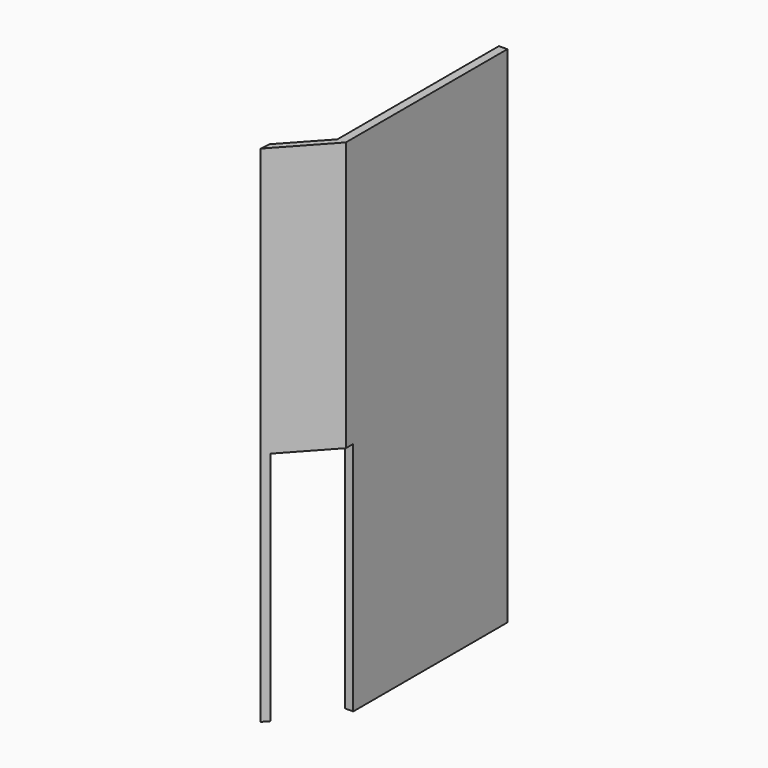
from build123d import *

# Parameters (mm, degrees)
F1_DEPTH = 4572
F2_W     = 487.68
F2_H     = 2133.6
F3_DEPTH = 76.2
F4_W     = 121.92
F4_H     = 2133.6
F5_DEPTH = 76.2


with BuildPart() as f1:
    # F0 (on Top) → F1 (new body)
    with BuildSketch(Plane.XY):
        Polygon((255.7539751807, 643.1105594851), (255.7539751807, 2471.9105594851), (179.5539751807, 2471.9105594851), (179.5539751807, 643.1105594851), (-149.4179206286, 283.0976789272), (-155.460894581, 193.0944587877), align=None)
    extrude(amount=F1_DEPTH)

    # F2 (on face) → F3 (cut)
    with BuildSketch(Plane(origin=(-222.4024566315, 203.2265003333, 0), x_dir=(-0.6745650751, -0.7382153883, 0), z_dir=(-0.7382153883, 0.6745650751, 0))):
        with Locations((-352.0349521259, 1066.8)):
            Rectangle(F2_W, F2_H)
    extrude(amount=-F3_DEPTH, mode=Mode.SUBTRACT)

    # F4 (on face) → F5 (cut)
    with BuildSketch(Plane(origin=(179.5539751807, 0, 0), x_dir=(0, -1, 0), z_dir=(-1, 0, 0))):
        with Locations((-666.1249163915, 1066.8)):
            Rectangle(F4_W, F4_H)
    extrude(amount=-F5_DEPTH, mode=Mode.SUBTRACT)


solid = f1.part
